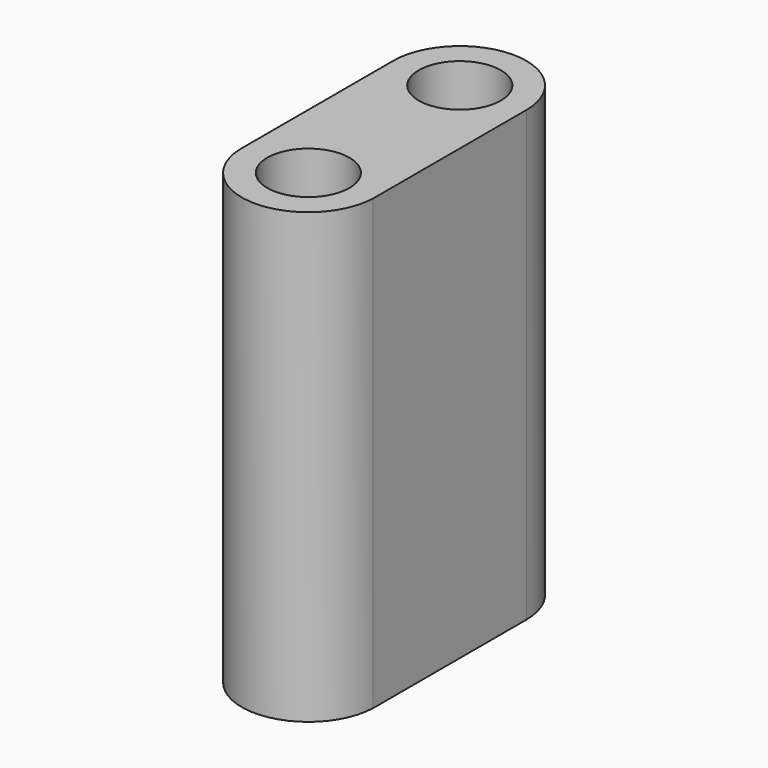
from build123d import *

# Parameters (mm, degrees)
F0_R     = 2.3262449414
F0_R_2   = 2.3241
F1_DEPTH = 25.4


with BuildPart() as f1:
    # F0 (on Top) → F1 (new body)
    with BuildSketch(Plane.XY):
        with BuildLine():
            ThreePointArc((-3.7697510656, 0), (0, -3.7697510656), (3.7697510656, 0))
            ThreePointArc((3.7697510656, 0), (0, 3.7697510656), (-3.7697510656, 0))
        make_face()
        Circle(F0_R, mode=Mode.SUBTRACT)
        with BuildLine():
            Line((3.7697510656, -10.8426766019), (3.7697510656, -10.588066989))
            ThreePointArc((3.7697510656, -10.588066989), (0, -6.9434717955), (-3.7697510656, -10.588066989))
            Line((-3.7697510656, -10.588066989), (-3.7697510656, -10.8426766019))
            ThreePointArc((-3.7697510656, -10.8426766019), (0, -14.4872717955), (3.7697510656, -10.8426766019))
        make_face()
        with Locations((0, -10.7153717955)):
            Circle(F0_R_2, mode=Mode.SUBTRACT)
        with BuildLine():
            Line((3.7697510656, -10.588066989), (3.7697510656, 0))
            ThreePointArc((3.7697510656, 0), (0, -3.7697510656), (-3.7697510656, 0))
            Line((-3.7697510656, 0), (-3.7697510656, -10.588066989))
            ThreePointArc((-3.7697510656, -10.588066989), (0, -6.9434717955), (3.7697510656, -10.588066989))
        make_face()
    extrude(amount=F1_DEPTH)


solid = f1.part
